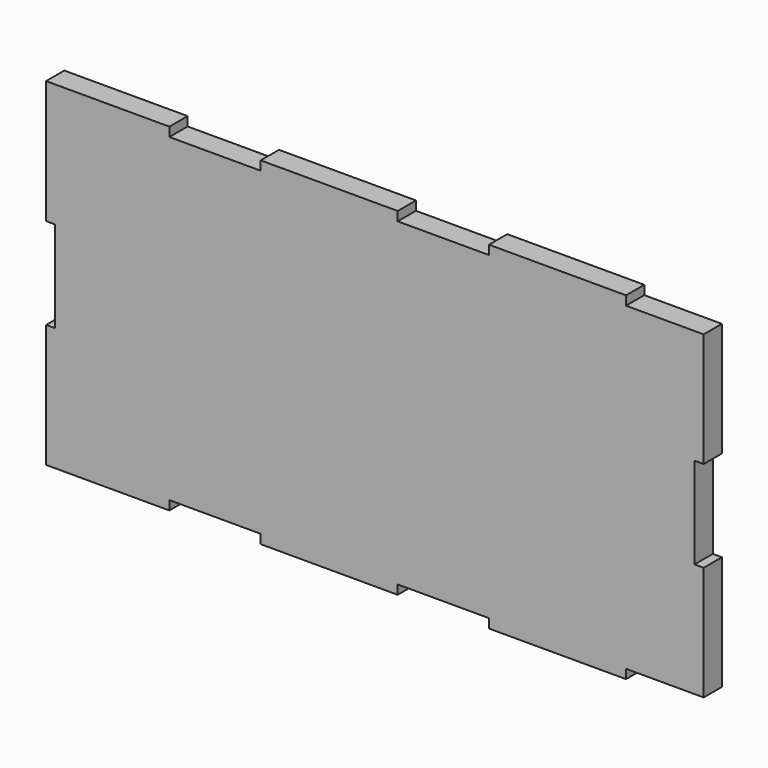
from build123d import *

# Parameters (mm, degrees)
F1_DEPTH = 5


with BuildPart() as f1:
    # F0 (on Front) → F1 (new body)
    with BuildSketch(Plane.XZ):
        Polygon((0, 27), (0, 0), (27, 0), (27, 2), (47, 2), (47, 0), (77, 0), (77, 2), (97, 2), (97, 0), (127, 0), (127, 2), (144, 2), (144, 27), (142, 27), (142, 47), (144, 47), (144, 72), (127, 72), (127, 74), (97, 74), (97, 72), (77, 72), (77, 74), (47, 74), (47, 72), (27, 72), (27, 74), (0, 74), (0, 47), (2, 47), (2, 27), align=None)
    extrude(amount=F1_DEPTH)


solid = f1.part
